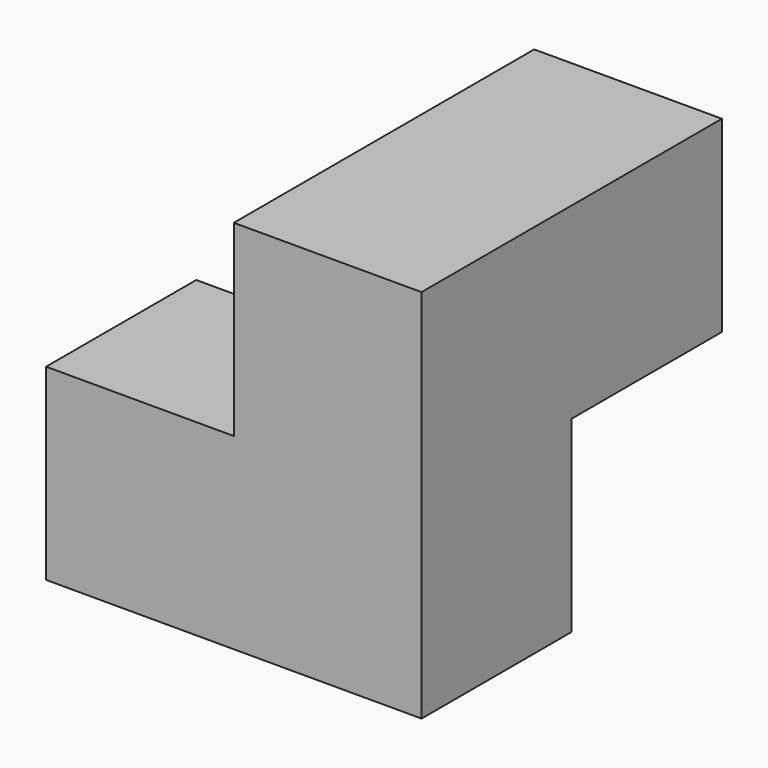
from build123d import *

# Parameters (mm, degrees)
F0_W     = 38.1
F0_H     = 38.1
F1_DEPTH = 19.05
F2_W     = 19.05
F2_H     = 19.05
F3_DEPTH = 19.05
F4_W     = 19.05
F4_H     = 19.05
F5_DEPTH = 19.05


with BuildPart() as f1:
    # F0 (on Right) → F1 (new body)
    with BuildSketch(Plane.YZ):
        with Locations((19.05, 19.05)):
            Rectangle(F0_W, F0_H)
    extrude(amount=F1_DEPTH)

    # F2 (on face) → F3 (cut)
    with BuildSketch(Plane.YZ.offset(19.05)):
        with Locations((28.575, 9.525)):
            Rectangle(F2_W, F2_H)
    extrude(amount=-F3_DEPTH, mode=Mode.SUBTRACT)

    # F4 (on face) → F5 (join)
    with BuildSketch(Plane(origin=(0, 0, 0), x_dir=(0, -1, 0), z_dir=(-1, 0, 0))):
        with Locations((-9.525, 9.525)):
            Rectangle(F4_W, F4_H)
    extrude(amount=F5_DEPTH)


solid = f1.part
